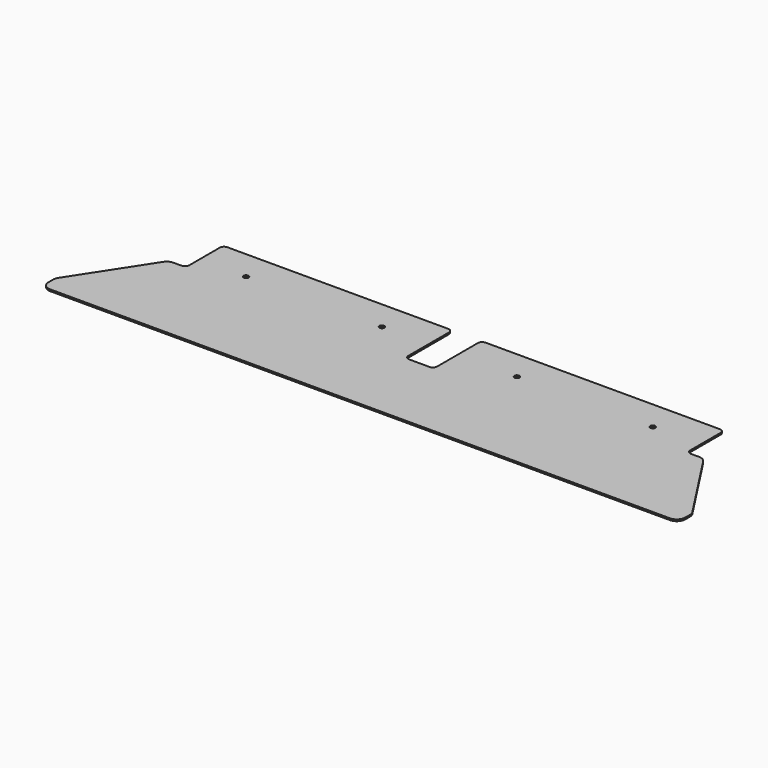
from build123d import *

# Parameters (mm, degrees)
F1_DEPTH = 2


with BuildPart() as f1:
    # F0 (on Top) → F1 (new body)
    with BuildSketch(Plane.XY):
        with BuildLine():
            Line((265, 0), (5, 0))
            ThreePointArc((5, 0), (1.464466, -1.464466), (0, -5))
            Line((0, -5), (0, -50))
            ThreePointArc((0, -50), (-1.464466, -53.535534), (-5, -55))
            Line((-5, -55), (-14.575301, -55))
            ThreePointArc((-14.575301, -55), (-19.34359, -56.210039), (-22.957917, -59.547316))
            Line((-22.957917, -59.547316), (-78.382615, -144.753785))
            ThreePointArc((-78.382615, -144.753785), (-79.587131, -147.362717), (-80, -150.206469))
            Line((-80, -150.206469), (-80, -157.240251))
            ThreePointArc((-80, -157.240251), (-77.071068, -164.311319), (-70, -167.240251))
            Line((-70, -167.240251), (660, -167.240251))
            ThreePointArc((660, -167.240251), (667.071068, -164.311319), (670, -157.240251))
            Line((670, -157.240251), (670, -150.206469))
            ThreePointArc((670, -150.206469), (669.587131, -147.362717), (668.382615, -144.753785))
            Line((668.382615, -144.753785), (612.957917, -59.547316))
            ThreePointArc((612.957917, -59.547316), (609.34359, -56.210039), (604.575301, -55))
            Line((604.575301, -55), (595, -55))
            ThreePointArc((595, -55), (591.464466, -53.535534), (590, -50))
            Line((590, -50), (590, -5))
            ThreePointArc((590, -5), (588.535534, -1.464466), (585, 0))
            Line((585, 0), (309, 0))
            ThreePointArc((309, 0), (305.464466, -1.464466), (304, -5))
            Line((304, -5), (304, -35))
            Line((304, -35), (304, -55))
            Line((304, -55), (304, -65))
            ThreePointArc((304, -65), (302.535534, -68.535534), (299, -70))
            Line((299, -70), (275, -70))
            ThreePointArc((275, -70), (271.464466, -68.535534), (270, -65))
            Line((270, -65), (270, -55))
            Line((270, -55), (270, -35))
            Line((270, -35), (270, -5))
            ThreePointArc((270, -5), (268.535534, -1.464466), (265, 0))
        make_face()
        with BuildLine():
            ThreePointArc((52, -35), (55, -32), (58, -35))
            ThreePointArc((58, -35), (55, -38), (52, -35))
        make_face(mode=Mode.SUBTRACT)
        with BuildLine():
            ThreePointArc((212, -35), (215, -32), (218, -35))
            ThreePointArc((218, -35), (215, -38), (212, -35))
        make_face(mode=Mode.SUBTRACT)
        with BuildLine():
            ThreePointArc((377, -35), (374, -38), (371, -35))
            ThreePointArc((371, -35), (374, -32), (377, -35))
        make_face(mode=Mode.SUBTRACT)
        with BuildLine():
            ThreePointArc((537, -35), (534, -38), (531, -35))
            ThreePointArc((531, -35), (534, -32), (537, -35))
        make_face(mode=Mode.SUBTRACT)
    extrude(amount=F1_DEPTH)


solid = f1.part
